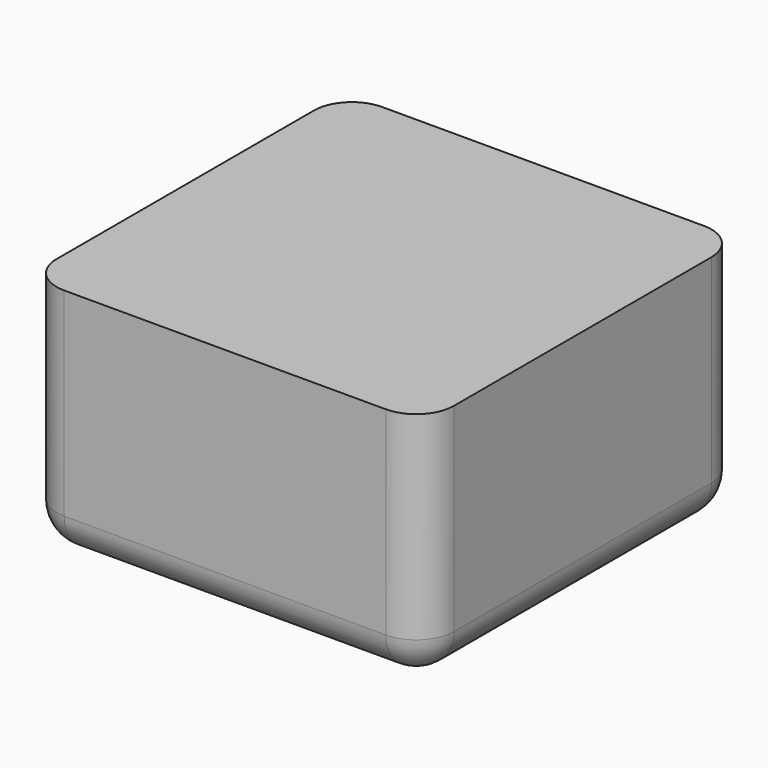
from build123d import *

# Parameters (mm, degrees)
F0_W     = 42
F0_H     = 42
F1_DEPTH = 40
F2_R     = 4
F3_W     = 51.3974614441
F3_H     = 62.1256567538
F3_W_2   = 34
F3_H_2   = 34
F4_DEPTH = 15


with BuildPart() as f1:
    # F0 (on Top) → F1 (new body)
    with BuildSketch(Plane.XY):
        Rectangle(F0_W, F0_H)
    extrude(amount=F1_DEPTH)

    # F2
    f2_edges = [f1.edges().sort_by_distance(p)[0] for p in [
        (-21, -21, 20),
        (21, -21, 20),
        (0, -21, 0),
        (0, -21, 40),
        (21, 0, 40),
        (0, 21, 40),
        (-21, 0, 40),
        (21, 21, 20),
        (21, 0, 0),
        (-21, 21, 20),
        (0, 21, 0),
        (-21, 0, 0),
    ]]
    fillet(f2_edges, radius=F2_R)

    # F3 (on face) → F4 (cut)
    with BuildSketch(Plane.XY.offset(40)):
        Rectangle(F3_W, F3_H)
        Rectangle(F3_W_2, F3_H_2, mode=Mode.SUBTRACT)
        Rectangle(F3_W_2, F3_H_2)
    extrude(amount=-F4_DEPTH, mode=Mode.SUBTRACT)


solid = f1.part
